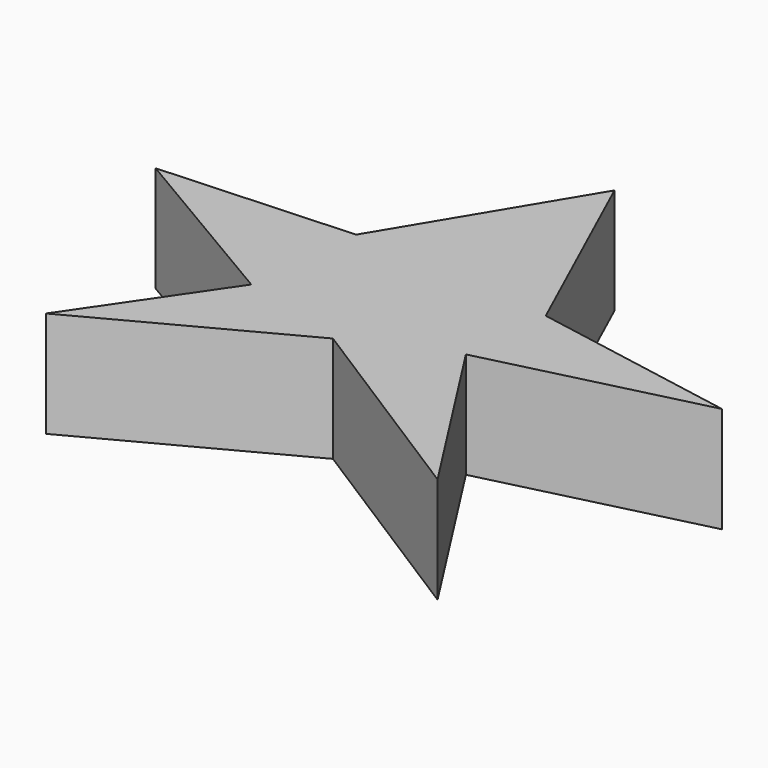
from build123d import *

# Parameters (mm, degrees)
PAD_DEPTH = 20


with BuildPart() as part:
    # Sketch → Pad (new body)
    with BuildSketch(Plane.XY):
        Polygon((0, 47.240005), (17.09127, 9.660384), (55.944771, 2.654013), (15.60507, -7.324756), (37.261124, -41.082718), (-2.86627, -15.605009), (-40.870518, -35.77486), (-23.036121, -9.660212), (-57.218716, 10.509643), (-20.912979, 12.420466), align=None)
    extrude(amount=PAD_DEPTH)


solid = part.part
